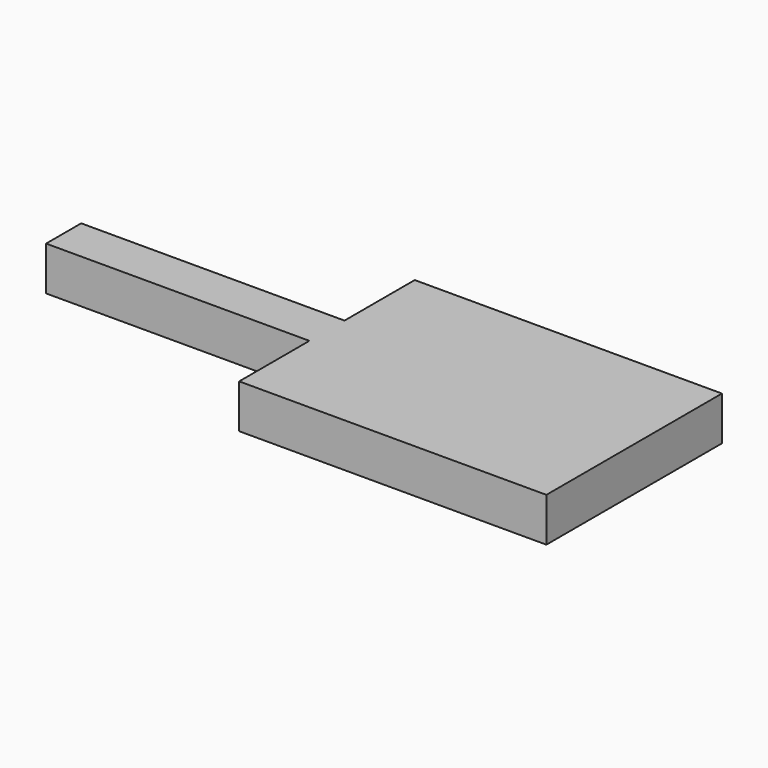
from build123d import *

# Parameters (mm, degrees)
F0_W     = 152.4
F0_H     = 25.4
F1_DEPTH = 25.4


with BuildPart() as f1:
    # F0 (on Top) → F1 (new body)
    with BuildSketch(Plane.XY):
        with Locations((-76.2, 63.5)):
            Rectangle(F0_W, F0_H)
        Polygon((0, 50.8), (0, 0), (177.8, 0), (177.8, 127), (0, 127), (0, 76.2), align=None)
    extrude(amount=F1_DEPTH)


solid = f1.part
